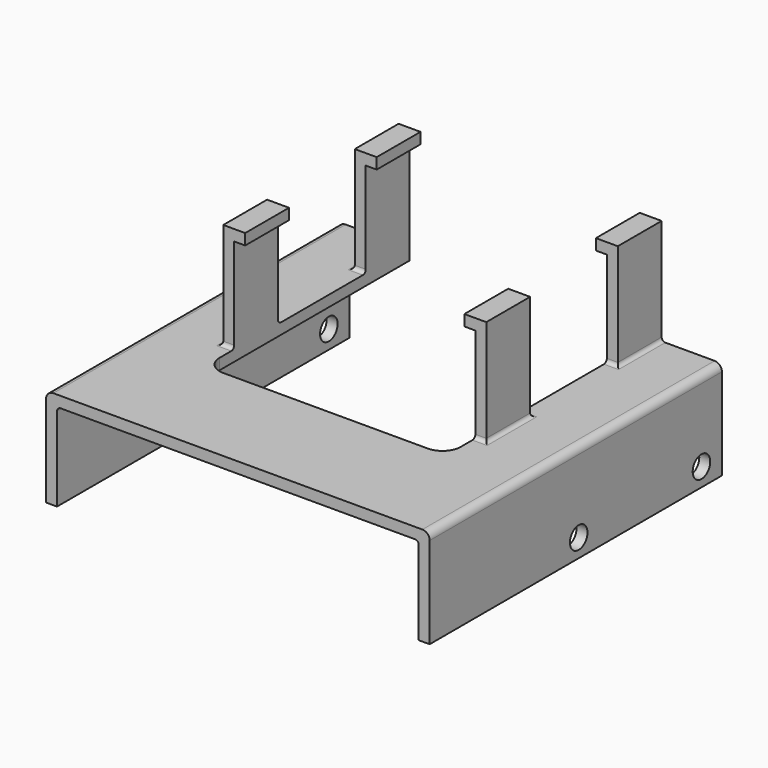
from build123d import *

# Parameters (mm, degrees)
F1_DEPTH  = 100
F2_R      = 3
F3_DEPTH  = 105.001
F4_W      = 66
F4_H      = 70
F5_DEPTH  = 25
F6_W      = 3
F6_H      = 15
F7_DEPTH  = 29
F8_W      = 15
F8_H      = 3
F9_DEPTH  = 3
F10_W     = 15
F10_H     = 3
F11_DEPTH = 3
F12_R     = 1
F13_R     = 2
F14_R     = 5


with BuildPart() as f1:
    # F0 (on Front) → F1 (new body)
    with BuildSketch(Plane.XZ):
        Polygon((105, 27), (0, 27), (0, 0), (3, 0), (3, 24), (102, 24), (102, 0), (105, 0), align=None)
    extrude(amount=F1_DEPTH)

    # F2 (on face) → F3 (cut, through all)
    with BuildSketch(Plane.YZ.offset(105)):
        with Locations((-7, 5)):
            Circle(F2_R)
        with Locations((-49, 5)):
            Circle(F2_R)
    extrude(amount=-F3_DEPTH, mode=Mode.SUBTRACT)

    # F4 (on face) → F5 (cut)
    with BuildSketch(Plane.XY.offset(27)):
        with Locations((52.5, -35)):
            Rectangle(F4_W, F4_H)
    extrude(amount=-F5_DEPTH, mode=Mode.SUBTRACT)

    # F6 (on face) → F7 (join)
    with BuildSketch(Plane.XY.offset(27)):
        with Locations((18, -7.5)):
            Rectangle(F6_W, F6_H)
        with Locations((18, -52.5)):
            Rectangle(F6_W, F6_H)
        with Locations((87, -7.5)):
            Rectangle(F6_W, F6_H)
        with Locations((87, -52.5)):
            Rectangle(F6_W, F6_H)
    extrude(amount=F7_DEPTH)

    # F8 (on face) → F9 (join)
    with BuildSketch(Plane.YZ.offset(19.5)):
        with Locations((-52.5, 54.5)):
            Rectangle(F8_W, F8_H)
        with Locations((-7.5, 54.5)):
            Rectangle(F8_W, F8_H)
    extrude(amount=F9_DEPTH)

    # F10 (on face) → F11 (join)
    with BuildSketch(Plane(origin=(85.5, 0, 0), x_dir=(0, -1, 0), z_dir=(-1, 0, 0))):
        with Locations((7.5, 54.5)):
            Rectangle(F10_W, F10_H)
        with Locations((52.5, 54.5)):
            Rectangle(F10_W, F10_H)
    extrude(amount=F11_DEPTH)

    # F12
    f12_edges = [f1.edges().sort_by_distance(p)[0] for p in [
        (3, -50, 24),
        (102, -50, 24),
        (16.5, -7.5, 27),
        (18, -15, 27),
        (16.5, -52.5, 27),
        (18, -60, 27),
        (18, -45, 27),
        (87, -60, 27),
        (88.5, -52.5, 27),
        (87, -15, 27),
        (88.5, -7.5, 27),
        (87, -45, 27),
    ]]
    fillet(f12_edges, radius=F12_R)

    # F13
    f13_edges = [f1.edges().sort_by_distance(p)[0] for p in [
        (0, -50, 27),
        (105, -50, 27),
    ]]
    fillet(f13_edges, radius=F13_R)

    # F14
    f14_edges = [f1.edges().sort_by_distance(p)[0] for p in [
        (85.5, -70, 25.5),
        (19.5, -70, 25.5),
    ]]
    fillet(f14_edges, radius=F14_R)


solid = f1.part
